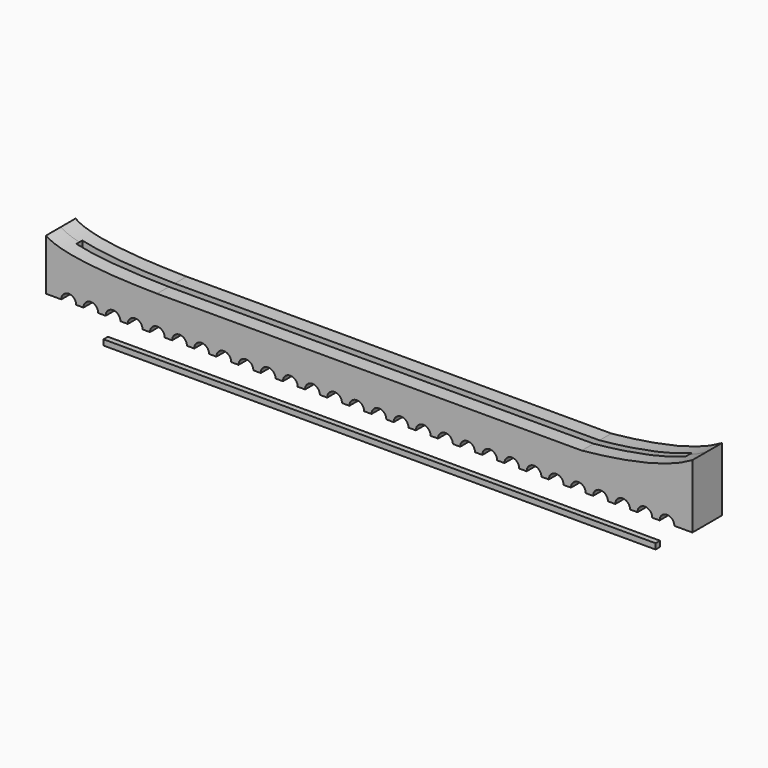
from build123d import *

# Parameters (mm, degrees)
F0_W      = 350
F0_H      = 20
F0_W_2    = 330
F0_H_2    = 4
F1_DEPTH  = 10
F2_DEPTH  = 25
F3_R      = 4
F4_DEPTH  = 12.5
F6_DEPTH  = 12.5
F7_W      = 300
F7_H      = 8
F8_DEPTH  = 1.5
F9_W      = 299
F9_H      = 3
F10_DEPTH = 3


with BuildPart() as f1:
    # F0 (on Top) → F1 (new body)
    with BuildSketch(Plane.XY):
        Rectangle(F0_W, F0_H)
        Rectangle(F0_W_2, F0_H_2, mode=Mode.SUBTRACT)
        Rectangle(F0_W_2, F0_H_2)
    extrude(amount=-F1_DEPTH)

    # F0 (on Top) → F2 (join)
    with BuildSketch(Plane.XY):
        Rectangle(F0_W, F0_H)
        Rectangle(F0_W_2, F0_H_2, mode=Mode.SUBTRACT)
    extrude(amount=F2_DEPTH)

    # F3 (on Front) → F4 (cut, symmetric)
    with BuildSketch(Plane.XZ):
        with Locations((-162.747424, -9.980079)):
            Circle(F3_R)
        with Locations((-150.747424, -9.980079)):
            Circle(F3_R)
        with Locations((-138.747424, -9.980079)):
            Circle(F3_R)
        with Locations((-126.747424, -9.980079)):
            Circle(F3_R)
        with Locations((-114.747424, -9.980079)):
            Circle(F3_R)
        with Locations((-102.747424, -9.980079)):
            Circle(F3_R)
        with Locations((-90.747424, -9.980079)):
            Circle(F3_R)
        with Locations((-78.747424, -9.980079)):
            Circle(F3_R)
        with Locations((-66.747424, -9.980079)):
            Circle(F3_R)
        with Locations((-54.747424, -9.980079)):
            Circle(F3_R)
        with Locations((-42.747424, -9.980079)):
            Circle(F3_R)
        with Locations((-30.747424, -9.980079)):
            Circle(F3_R)
        with Locations((-18.747424, -9.980079)):
            Circle(F3_R)
        with Locations((-6.747424, -9.980079)):
            Circle(F3_R)
        with Locations((5.252576, -9.980079)):
            Circle(F3_R)
        with Locations((17.252576, -9.980079)):
            Circle(F3_R)
        with Locations((29.252576, -9.980079)):
            Circle(F3_R)
        with Locations((41.252576, -9.980079)):
            Circle(F3_R)
        with Locations((53.252576, -9.980079)):
            Circle(F3_R)
        with Locations((65.252576, -9.980079)):
            Circle(F3_R)
        with Locations((77.252576, -9.980079)):
            Circle(F3_R)
        with Locations((89.252576, -9.980079)):
            Circle(F3_R)
        with Locations((101.252576, -9.980079)):
            Circle(F3_R)
        with Locations((113.252576, -9.980079)):
            Circle(F3_R)
        with Locations((125.252576, -9.980079)):
            Circle(F3_R)
        with Locations((137.252576, -9.980079)):
            Circle(F3_R)
        with Locations((149.252576, -9.980079)):
            Circle(F3_R)
        with Locations((161.252576, -9.980079)):
            Circle(F3_R)
    extrude(amount=F4_DEPTH, both=True, mode=Mode.SUBTRACT)

    # F5 (on Front) → F6 (cut, symmetric)
    with BuildSketch(Plane.XZ):
        with BuildLine():
            add(Edge.make_bspline(
                [(-114.8988, 9.609446), (-141.261712, 9.972793), (-187.170532, 11.972299), (-175.523996, 25.933482)],
                knots=[0, 0, 0, 0, 62.784461, 62.784461, 62.784461, 62.784461], degree=3))
            Line((-114.8988, 9.609446), (115.1012, 9.609446))
            add(Edge.make_bspline(
                [(115.1012, 9.609446), (173.7871, 15.48598), (187.522569, 29.824581), (189.443767, 44.022262)],
                knots=[0, 0, 0, 0, 81.921055, 81.921055, 81.921055, 81.921055], degree=3))
            Line((189.443767, 44.022262), (-175.523996, 25.933482))
        make_face()
    extrude(amount=F6_DEPTH, both=True, mode=Mode.SUBTRACT)

    # F7 (on Front) → F8 (cut, symmetric)
    with BuildSketch(Plane.XZ):
        with Locations((0, -6.000236)):
            Rectangle(F7_W, F7_H)
    extrude(amount=F8_DEPTH, both=True, mode=Mode.SUBTRACT)


with BuildPart() as f10:
    # F9 (on Front) → F10 (new body)
    with BuildSketch(Plane.XZ):
        with Locations((0, -27.74998)):
            Rectangle(F9_W, F9_H)
    extrude(amount=F10_DEPTH)


solid = Compound([f1.part, f10.part])
